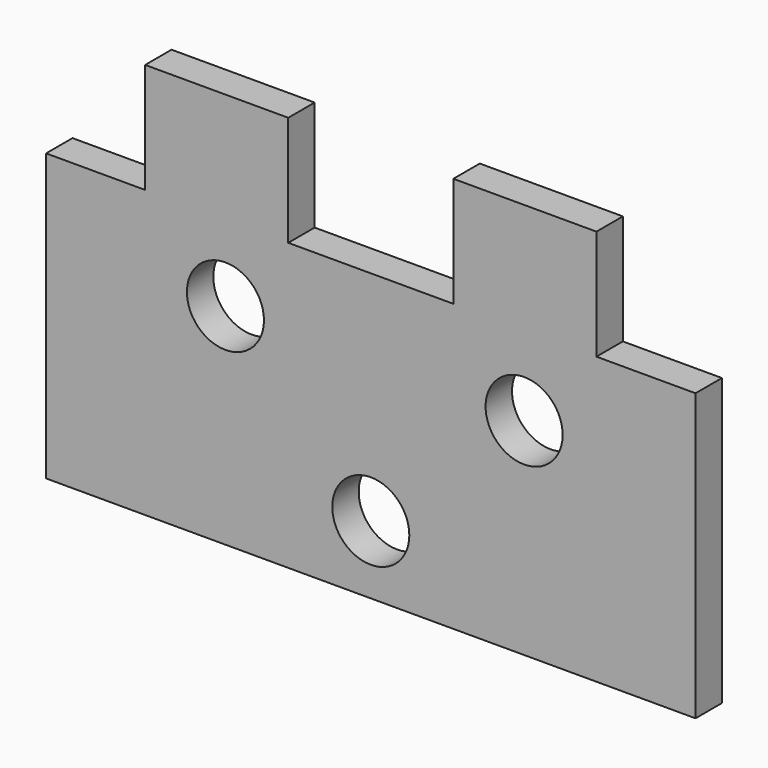
from build123d import *

# Parameters (mm, degrees)
F0_R     = 3.5
F0_W     = 13
F0_H     = 10
F1_DEPTH = 1.5


with BuildPart() as f1:
    # F0 (on Front) → F1 (new body, symmetric)
    with BuildSketch(Plane.XZ):
        Polygon((-29.5, -13), (29.5, -13), (29.5, 13), (20.5, 13), (7.5, 13), (-7.5, 13), (-20.5, 13), (-29.5, 13), align=None)
        with Locations((0, -6.812248)):
            Circle(F0_R, mode=Mode.SUBTRACT)
        with Locations((-13.20711, 6.07774)):
            Circle(F0_R, mode=Mode.SUBTRACT)
        with Locations((13.929705, 5.73853)):
            Circle(F0_R, mode=Mode.SUBTRACT)
        with Locations((14, 18)):
            Rectangle(F0_W, F0_H)
        with Locations((-14, 18)):
            Rectangle(F0_W, F0_H)
    extrude(amount=F1_DEPTH, both=True)


solid = f1.part
